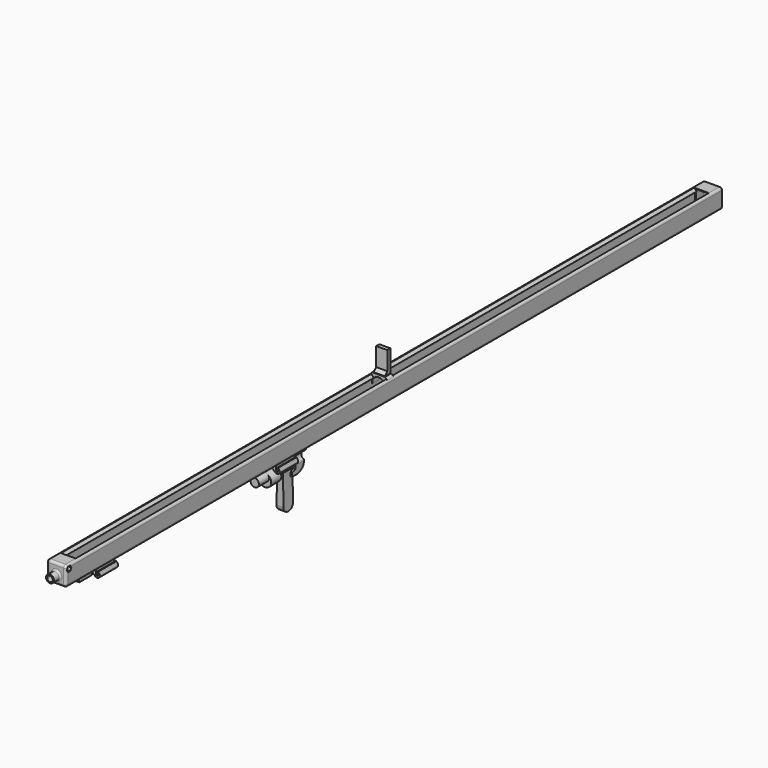
from build123d import *

# Parameters (mm, degrees)
PAD_DEPTH            = 10
CHAMFER_SIZE         = 3
SKETCH018_W          = 14.07752
SKETCH018_H          = 28.079826
PAD009_DEPTH         = 5
CHAMFER001_SIZE      = 4
PAD017_DEPTH         = 340
SKETCH028_W          = 255.75
SKETCH028_H          = 55.145052
SKETCH028_W_2        = 65.422654
SKETCH028_H_2        = 54.277497
POCKET004_DEPTH      = 13
PAD020_DEPTH         = 7.5
POCKET009_DEPTH      = 10
SKETCH032_W          = 18
SKETCH032_H          = 5
PAD021_DEPTH         = 20
SKETCH026_R          = 2.2
POCKET005_DEPTH      = 0.001
POCKET005_DEPTH_BACK = 495.001
SKETCH040_R          = 4.638047
POCKET010_DEPTH      = 20
FILLET003_R          = 1
FILLET004_R          = 9
SKETCH041_W          = 15
SKETCH041_H          = 7.050635
POCKET011_DEPTH      = 5
CHAMFER004_SIZE      = 2
CHAMFER005_SIZE      = 1.2
PAD008_DEPTH         = 501
SKETCH019_R          = 2.2
PAD010_DEPTH         = 495
SKETCH020_W          = 13.9
SKETCH020_H          = 18.2
PAD011_DEPTH         = 15
PAD012_DEPTH         = 4
SKETCH022_R          = 4.5
POCKET_DEPTH         = 15
FILLET_R             = 3
SKETCH023_R          = 5
PAD016_DEPTH         = 10
SKETCH024_R          = 3.5
POCKET003_DEPTH      = 17
FILLET001_R          = 2
SKETCH033_R          = 4
PAD022_DEPTH         = 9.5
SKETCH034_R          = 1.6
POCKET006_DEPTH      = 12.201
POCKET006_DEPTH_BACK = 12.201
SKETCH035_R          = 3.05
POCKET007_DEPTH      = 7
POCKET008_DEPTH      = 7
CHAMFER003_SIZE      = 1.3
SKETCH029_R          = 8
PAD018_DEPTH         = 16
SKETCH030_R          = 5.25
PAD019_DEPTH         = 16
SKETCH037_R          = 5.55
PAD023_DEPTH         = 23
PAD024_DEPTH         = 15
FILLET002_R          = 7


with BuildPart() as stripplacer:
    # Sketch017 → Pad (new body)
    with BuildSketch(Plane.XZ):
        with BuildLine():
            ThreePointArc((6.682066, -3.2), (0, 0.3), (-6.682066, -3.2))
            Line((-6.682066, -3.2), (-8.05, -3.2))
            Line((-8.05, -3.2), (-8.05, -9.2))
            Line((-8.05, -9.2), (-11.05, -9.2))
            Line((-11.05, -9.2), (-11.05, 3.3))
            Line((-11.05, 3.3), (11.05, 3.3))
            Line((11.05, 3.3), (11.05, -9.2))
            Line((11.05, -9.2), (8.05, -9.2))
            Line((8.05, -9.2), (8.05, -3.2))
            Line((6.682066, -3.2), (8.05, -3.2))
        make_face()
    extrude(amount=PAD_DEPTH)

    # Chamfer
    chamfer_edges = [stripplacer.edges().sort_by_distance(p)[0] for p in [
        (11.05, -5, 3.3),
        (-11.05, -5, 3.3),
    ]]
    chamfer(chamfer_edges, length=CHAMFER_SIZE)

    # Sketch018 → Pad009 (join)
    with BuildSketch(Plane.XZ):
        with Locations((0, 16.761206)):
            Rectangle(SKETCH018_W, SKETCH018_H)
    extrude(amount=PAD009_DEPTH)

    # Chamfer001
    chamfer001_edges = [stripplacer.edges().sort_by_distance(p)[0] for p in [
        (0, -5, 3.3),
    ]]
    chamfer(chamfer001_edges, length=CHAMFER001_SIZE)


with BuildPart() as scratch:
    # Sketch027 → Pad017 (new body)
    with BuildSketch(Plane.XZ.offset(150.85)):
        with BuildLine():
            Line((0, -30), (4.242641, -34.242641))
            Line((4.242641, -34.242641), (5.432671, -35.155783))
            ThreePointArc((5.432671, -35.155783), (9.99478, -34.771029), (10.037752, -30.192925))
            Line((8.8, -28.807746), (10.037752, -30.192925))
            Line((7.6, -28.807746), (8.8, -28.807746))
            Line((7.6, -31.262555), (7.6, -28.807746))
            ThreePointArc((6.3, -32.458381), (8.312404, -33.341558), (7.6, -31.262555))
            Line((6.3, -32.458381), (6.3, -26.458381))
            Line((6.3, -26.458381), (9, -23.2))
            Line((9, -23.2), (-9, -23.2))
            Line((-6.25, -26.458381), (-9, -23.2))
            Line((-6.25, -32.458381), (-6.25, -26.458381))
            ThreePointArc((-7.85, -31.258381), (-8.25, -33.458381), (-6.25, -32.458381))
            Line((-7.85, -31.258381), (-8.13, -30.298381))
            Line((-8.13, -30.298381), (-9.370977, -29.617846))
            ThreePointArc((-9.370977, -29.617846), (-10.273256, -34.428835), (-5.432671, -35.155783))
            Line((-5.432671, -35.155783), (-4.242641, -34.242641))
            Line((0, -30), (-4.242641, -34.242641))
        make_face()
    extrude(amount=PAD017_DEPTH)

    # Sketch028 → Pocket004 (cut, symmetric)
    with BuildSketch(Plane.YZ):
        with Locations((-307.985, -51.022526)):
            Rectangle(SKETCH028_W, SKETCH028_H)
        with Locations((-497.571327, -50.588749)):
            Rectangle(SKETCH028_W_2, SKETCH028_H_2)
    extrude(amount=POCKET004_DEPTH, both=True, mode=Mode.SUBTRACT)

    # Sketch031 → Pad020 (join, symmetric)
    with BuildSketch(Plane.YZ):
        Polygon((-156.253647, -44.266901), (-150.85, -42.402939), (-150.85, -23.2), (-133.706074, -23.2), (-138.925842, -45.648563), (-147.958359, -48.869244), (-156.253647, -48.869244), align=None)
    extrude(amount=PAD020_DEPTH, both=True)

    # Sketch039 → Pocket009 (cut)
    with BuildSketch(Plane.XY.offset(-41)):
        Polygon((3.7, -150.85), (-3.7, -150.85), (-6.215132, -157.760269), (6.215132, -157.760269), align=None)
    extrude(amount=-POCKET009_DEPTH, mode=Mode.SUBTRACT)

    # Sketch032 → Pad021 (join)
    with BuildSketch(Plane.XZ.offset(475)):
        with Locations((0, -25.7)):
            Rectangle(SKETCH032_W, SKETCH032_H)
    extrude(amount=PAD021_DEPTH)

    # Sketch026 → Pocket005 (cut, two sides)
    with BuildSketch(Plane.XZ) as pocket005_sk:
        with Locations((0, -26.65)):
            Circle(SKETCH026_R)
    extrude(amount=-POCKET005_DEPTH, mode=Mode.SUBTRACT)
    extrude(pocket005_sk.sketch, amount=POCKET005_DEPTH_BACK, mode=Mode.SUBTRACT)

    # Sketch040 (on Face39 of Pocket009) → Pocket010 (cut)
    with BuildSketch(Plane(origin=(0, -150.85, 0), x_dir=(1, 0, 0), z_dir=(0, 1, 0))):
        with Locations((-7.50246, 32.458381)):
            Circle(SKETCH040_R)
        with Locations((7.50246, 32.458381)):
            Circle(SKETCH040_R)
    extrude(amount=POCKET010_DEPTH, mode=Mode.SUBTRACT)

    # Fillet003
    fillet003_edges = [scratch.edges().sort_by_distance(p)[0] for p in [
        (7.5, -143.893644, -37.096428),
        (7.5, -142.8152, -27.820335),
        (-7.5, -143.893644, -37.096428),
        (-7.5, -142.8152, -27.820335),
    ]]
    fillet(fillet003_edges, radius=FILLET003_R)

    # Fillet004
    fillet004_edges = [scratch.edges().sort_by_distance(p)[0] for p in [
        (0, -138.925842, -45.648563),
    ]]
    fillet(fillet004_edges, radius=FILLET004_R)

    # Sketch041 → Pocket011 (cut)
    with BuildSketch(Plane.YZ.offset(-6.25)):
        with Locations((-164.613206, -32.333064)):
            Rectangle(SKETCH041_W, SKETCH041_H)
        with Locations((-450.35583, -32.333064)):
            Rectangle(SKETCH041_W, SKETCH041_H)
    extrude(amount=-POCKET011_DEPTH, mode=Mode.SUBTRACT)

    # Chamfer004
    chamfer004_edges = [scratch.edges().sort_by_distance(p)[0] for p in [
        (-6.25, -172.113206, -34.038836),
        (-6.25, -157.113206, -34.038836),
        (-6.25, -457.85583, -34.038836),
        (-6.25, -442.85583, -34.038836),
    ]]
    chamfer(chamfer004_edges, length=CHAMFER004_SIZE)

    # Chamfer005
    chamfer005_edges = [scratch.edges().sort_by_distance(p)[0] for p in [
        (-7.99, -157.113206, -30.778381),
        (-8.750488, -157.113206, -29.958114),
        (-7.99, -172.113206, -30.778381),
        (-8.750488, -172.113206, -29.958114),
        (-8.750488, -150.85, -29.958114),
        (-7.99, -150.85, -30.778381),
        (-8.750488, -180.11, -29.958114),
        (-7.99, -180.11, -30.778381),
        (-8.750488, -457.85583, -29.958114),
        (-7.99, -457.85583, -30.778381),
        (-8.750488, -435.86, -29.958114),
        (-7.99, -435.86, -30.778381),
        (-8.750488, -442.85583, -29.958114),
        (-7.99, -442.85583, -30.778381),
        (-8.750488, -464.86, -29.958114),
        (-7.99, -464.86, -30.778381),
    ]]
    chamfer(chamfer005_edges, length=CHAMFER005_SIZE)


with BuildPart() as obj1:
    # Sketch016 → Pad008 (new body)
    with BuildSketch(Plane.XZ):
        with BuildLine():
            ThreePointArc((-9.2, 0.95), (-11.32132, 0.07132), (-12.2, -2.05))
            Line((-12.2, -20.45), (-12.2, -2.05))
            ThreePointArc((-12.2, -20.45), (-11.32132, -22.57132), (-9.2, -23.45))
            Line((9.2, -23.45), (-9.2, -23.45))
            ThreePointArc((9.2, -23.45), (11.32132, -22.57132), (12.2, -20.45))
            Line((12.2, -2.05), (12.2, -20.45))
            ThreePointArc((12.2, -2.05), (11.32132, 0.07132), (9.2, 0.95))
            Line((6.11895, -2.292259), (9.2, 0.95))
            Line((6.916338, -3.05), (6.11895, -2.292259))
            Line((8.2, -3.05), (6.916338, -3.05))
            Line((8.2, -19.45), (8.2, -3.05))
            Line((-8.2, -19.45), (8.2, -19.45))
            Line((-8.2, -3.05), (-8.2, -19.45))
            Line((-8.2, -3.05), (-6.916338, -3.05))
            Line((-6.916338, -3.05), (-6.11895, -2.292259))
            Line((-9.2, 0.95), (-6.11895, -2.292259))
        make_face()
    extrude(amount=PAD008_DEPTH)

    # Sketch019 → Pad010 (join)
    with BuildSketch(Plane.XZ):
        with BuildLine():
            ThreePointArc((-3.15, -25.124385), (0, -30.15), (3.15, -25.124385))
            Line((3.15, -25.124385), (3.5, -23.45))
            Line((-3.5, -23.45), (3.5, -23.45))
            Line((-3.15, -25.124385), (-3.5, -23.45))
        make_face()
        with Locations((0, -26.65)):
            Circle(SKETCH019_R, mode=Mode.SUBTRACT)
    extrude(amount=PAD010_DEPTH)

    # Sketch020 → Pad011 (join)
    with BuildSketch(Plane.XZ.offset(501)):
        with BuildLine():
            ThreePointArc((-9.2, 0.95), (-11.32132, 0.07132), (-12.2, -2.05))
            Line((-12.2, -20.45), (-12.2, -2.05))
            ThreePointArc((-12.2, -20.45), (-11.32132, -22.57132), (-9.2, -23.45))
            Line((9.2, -23.45), (-9.2, -23.45))
            ThreePointArc((9.2, -23.45), (11.32132, -22.57132), (12.2, -20.45))
            Line((12.2, -2.05), (12.2, -20.45))
            ThreePointArc((12.2, -2.05), (11.32132, 0.07132), (9.2, 0.95))
            Line((-9.2, 0.95), (9.2, 0.95))
        make_face()
        with Locations((0, -9.1)):
            Rectangle(SKETCH020_W, SKETCH020_H, mode=Mode.SUBTRACT)
    extrude(amount=PAD011_DEPTH)

    # Sketch021 → Pad012 (join)
    with BuildSketch(Plane.XZ.offset(516)):
        with BuildLine():
            ThreePointArc((-9.2, 0.95), (-11.32132, 0.07132), (-12.2, -2.05))
            Line((-12.2, -20.45), (-12.2, -2.05))
            ThreePointArc((-12.2, -20.45), (-11.32132, -22.57132), (-9.2, -23.45))
            Line((9.2, -23.45), (-9.2, -23.45))
            ThreePointArc((9.2, -23.45), (11.32132, -22.57132), (12.2, -20.45))
            Line((12.2, -2.05), (12.2, -20.45))
            ThreePointArc((12.2, -2.05), (11.32132, 0.07132), (9.2, 0.95))
            Line((-9.2, 0.95), (9.2, 0.95))
        make_face()
    extrude(amount=PAD012_DEPTH)

    # Sketch022 → Pocket (cut)
    with BuildSketch(Plane.XZ.offset(495)):
        with Locations((0, -26.65)):
            Circle(SKETCH022_R)
    extrude(amount=POCKET_DEPTH, mode=Mode.SUBTRACT)

    # Fillet
    fillet_edges = [obj1.edges().sort_by_distance(p)[0] for p in [
        (-6.95, -516, -9.1),
        (0, -516, -18.2),
        (6.95, -516, -9.1),
        (0, -516, 0),
        (-11.32132, -520, 0.07132),
        (-12.2, -520, -11.25),
        (-11.32132, -520, -22.57132),
        (0, -520, -23.45),
        (11.32132, -520, -22.57132),
        (12.2, -520, -11.25),
        (11.32132, -520, 0.07132),
        (0, -520, 0.95),
    ]]
    fillet(fillet_edges, radius=FILLET_R)


with BuildPart() as obj2:
    # Part__Mirroring: instance of obj1
    add(obj1.part.mirror(Plane(origin=(0, 0, 0), x_dir=(1, 0, 0), z_dir=(0, 1, 0))))


with BuildPart() as body:
    # Fusion base: copy of obj1
    add(obj1.part)

    # Fusion: union obj2
    add(obj2.part)

    # Sketch023 → Pad016 (new body)
    with BuildSketch(Plane.XZ.offset(520)):
        with Locations((0, -13)):
            Circle(SKETCH023_R)
    extrude(amount=PAD016_DEPTH)

    # Sketch024 → Pocket003 (cut)
    with BuildSketch(Plane.XZ.offset(530)):
        with Locations((0, -13)):
            Circle(SKETCH024_R)
    extrude(amount=-POCKET003_DEPTH, mode=Mode.SUBTRACT)

    # Fillet001
    fillet001_edges = [body.edges().sort_by_distance(p)[0] for p in [
        (-5, -520, -13),
    ]]
    fillet(fillet001_edges, radius=FILLET001_R)

    # Sketch033 → Pad022 (join, symmetric)
    with BuildSketch(Plane.YZ):
        with Locations((-515, -4.05)):
            Circle(SKETCH033_R)
    extrude(amount=PAD022_DEPTH, both=True)

    # Sketch034 → Pocket006 (cut, two sides)
    with BuildSketch(Plane.YZ) as pocket006_sk:
        with Locations((-515, -4.05)):
            Circle(SKETCH034_R)
    extrude(amount=-POCKET006_DEPTH, mode=Mode.SUBTRACT)
    extrude(pocket006_sk.sketch, amount=POCKET006_DEPTH_BACK, mode=Mode.SUBTRACT)

    # Sketch035 (on Face9 of Pocket006) → Pocket007 (cut)
    with BuildSketch(Plane(origin=(-12.2, 0, 0), x_dir=(0, -1, 0), z_dir=(-1, 0, 0))):
        with Locations((515, -4.05)):
            Circle(SKETCH035_R)
    extrude(amount=-POCKET007_DEPTH, mode=Mode.SUBTRACT)

    # Sketch036 (on Face16 of Pocket007) → Pocket008 (cut)
    with BuildSketch(Plane.YZ.offset(12.2)):
        Polygon((-511.478163, -4.05), (-513.239082, -1), (-516.760918, -1), (-518.521837, -4.05), (-516.760918, -7.1), (-513.239082, -7.1), align=None)
    extrude(amount=-POCKET008_DEPTH, mode=Mode.SUBTRACT)

    # Chamfer003
    chamfer003_edges = [body.edges().sort_by_distance(p)[0] for p in [
        (-5.2, -511.95, -4.05),
    ]]
    chamfer(chamfer003_edges, length=CHAMFER003_SIZE)

    # Fusion001: union Scratch
    add(scratch.part)


with BuildPart() as rods:
    # Sketch029 → Pad018 (new body)
    with BuildSketch(Plane.XZ.offset(174)):
        with Locations((0, -41.13113)):
            Circle(SKETCH029_R)
    extrude(amount=PAD018_DEPTH)

    # Sketch030 (on Face3 of Pad018) → Pad019 (join)
    with BuildSketch(Plane.XZ.offset(190)):
        with Locations((0, -37.436907)):
            Circle(SKETCH030_R)
    extrude(amount=PAD019_DEPTH)

    # Sketch037 → Pad023 (join)
    with BuildSketch(Plane.XZ.offset(151)):
        with Locations((0, -37.92)):
            Circle(SKETCH037_R)
    extrude(amount=PAD023_DEPTH)

    # Sketch038 → Pad024 (join)
    with BuildSketch(Plane.XZ.offset(151)):
        Polygon((-3.75, -41.111142), (3.75, -41.111142), (4.5, -87.186907), (-4.5, -87.186907), align=None)
    extrude(amount=PAD024_DEPTH)

    # Fillet002
    fillet002_edges = [rods.edges().sort_by_distance(p)[0] for p in [
        (0, -151, -87.186907),
        (0, -166, -87.186907),
    ]]
    fillet(fillet002_edges, radius=FILLET002_R)


solid = Compound([stripplacer.part, body.part, rods.part])
